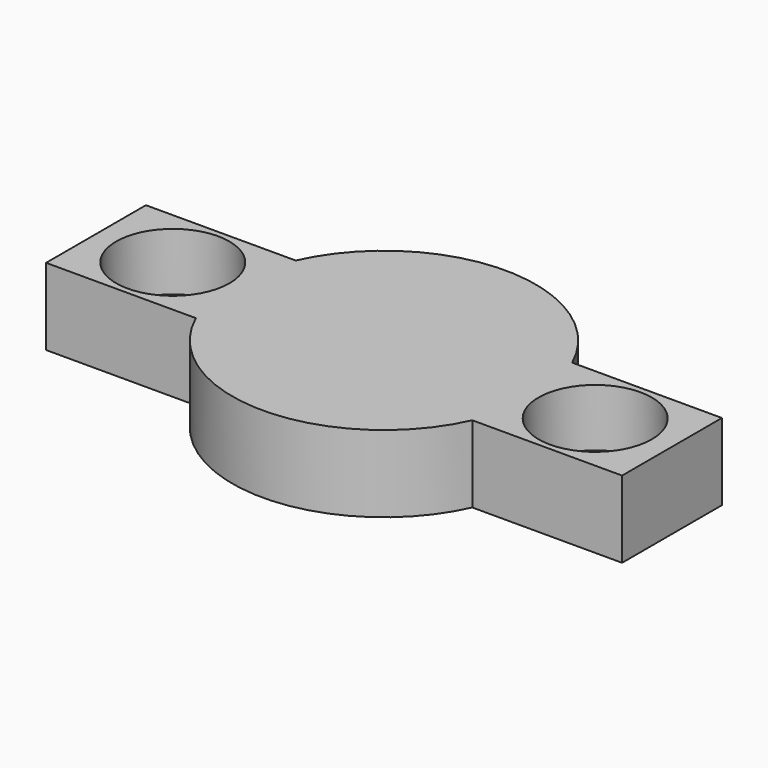
from build123d import *

# Parameters (mm, degrees)
PAD_DEPTH       = 4
SKETCH001_R     = 1.7
POCKET_DEPTH    = 4.001
SKETCH002_R     = 2.95
POCKET001_DEPTH = 3


with BuildPart() as part:
    # Sketch → Pad (new body)
    with BuildSketch(Plane.XY):
        with BuildLine():
            Line((-7.200521, 3.25), (-15, 3.25))
            Line((-15, 3.25), (-15, -3.25))
            Line((-15, -3.25), (-7.200521, -3.25))
            ThreePointArc((-7.200521, -3.25), (0, -7.9), (7.200521, -3.25))
            Line((15, -3.25), (7.200521, -3.25))
            Line((15, 3.25), (15, -3.25))
            Line((7.200521, 3.25), (15, 3.25))
            ThreePointArc((7.200521, 3.25), (0, 7.9), (-7.200521, 3.25))
        make_face()
    extrude(amount=PAD_DEPTH)

    # Sketch001 (on Face10 of Pad) → Pocket (cut, through all)
    with BuildSketch(Plane.XY.offset(4)):
        with Locations((11, 0)):
            Circle(SKETCH001_R)
        with Locations((-11, 0)):
            Circle(SKETCH001_R)
    extrude(amount=-POCKET_DEPTH, mode=Mode.SUBTRACT)

    # Sketch002 (on Face5 of Pocket) → Pocket001 (cut)
    with BuildSketch(Plane.XY.offset(4)):
        with Locations((-11, 0)):
            Circle(SKETCH002_R)
        with Locations((11, 0)):
            Circle(SKETCH002_R)
    extrude(amount=-POCKET001_DEPTH, mode=Mode.SUBTRACT)


solid = part.part
